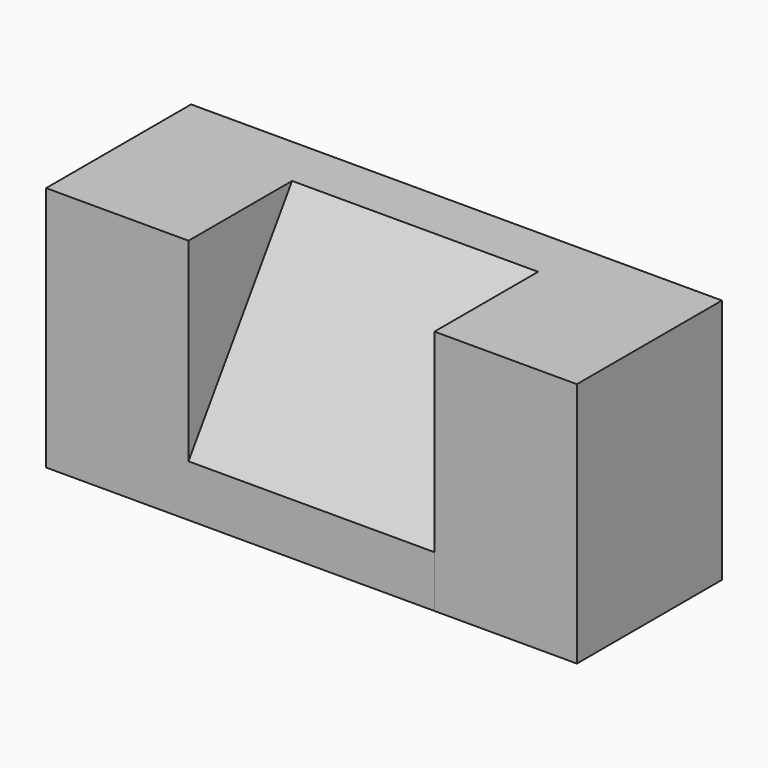
from build123d import *

# Parameters (mm, degrees)
F0_W     = 34.925
F0_H     = 60.325
F1_DEPTH = 44.45
F3_DEPTH = 60.325
F5_DEPTH = 34.925


with BuildPart() as f1:
    # F0 (on Front) → F1 (new body)
    with BuildSketch(Plane.XZ):
        with Locations((-46.881634, -30.1625)):
            Rectangle(F0_W, F0_H)
    extrude(amount=F1_DEPTH)

    # F2 (on face) → F3 (join)
    with BuildSketch(Plane.YZ.offset(-29.419134)):
        Polygon((-44.45, -47.625), (-44.45, -60.325), (0, -60.325), (0, -47.625), (0, 0), (-12.7, 0), align=None)
    extrude(amount=F3_DEPTH)

    # F4 (on face) → F5 (join)
    with BuildSketch(Plane.YZ.offset(30.905866)):
        Polygon((-44.45, -47.625), (-12.7, 0), (-44.459421, 0), (-44.45, -60.325), align=None)
        Polygon((0, -60.325), (0, 0), (-12.7, 0), (-44.45, -47.625), (-44.45, -60.325), align=None)
    extrude(amount=F5_DEPTH)


solid = f1.part
